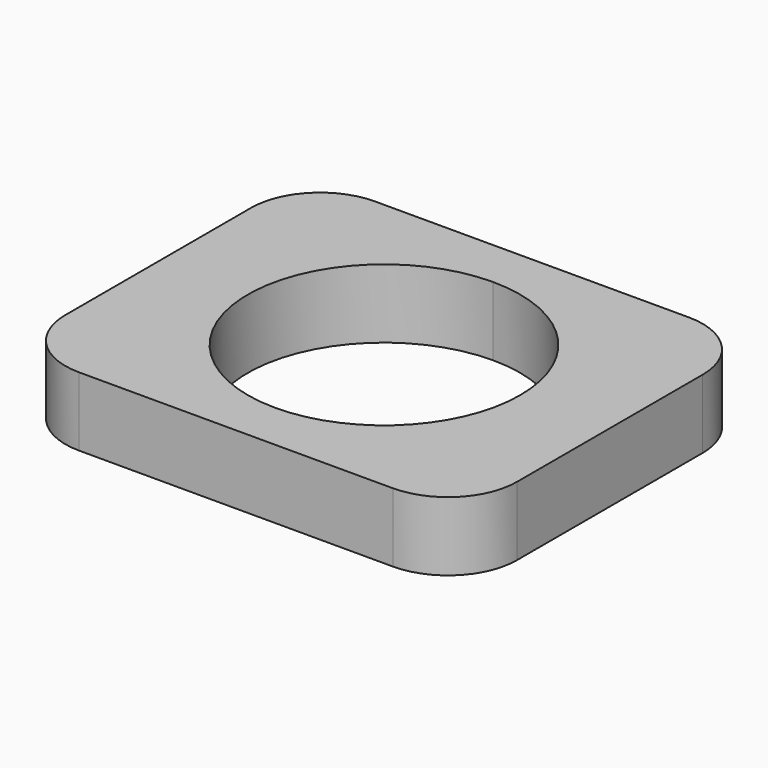
from build123d import *

# Parameters (mm, degrees)
F1_DEPTH = 6.35


with BuildPart() as f1:
    # F0 (on Top) → F1 (new body)
    with BuildSketch(Plane.XY):
        with BuildLine():
            Line((-33.452062, 64.246289), (-47.906495, 64.246289))
            ThreePointArc((-47.906495, 64.246289), (-52.396623, 62.386417), (-54.256495, 57.896289))
            Line((-54.256495, 57.896289), (-54.256495, 36.50268))
            ThreePointArc((-54.256495, 36.50268), (-52.396623, 32.012552), (-47.906495, 30.15268))
            Line((-47.906495, 30.15268), (-33.452062, 30.15268))
            Line((-33.452062, 30.15268), (-33.452062, 34.650155))
            ThreePointArc((-33.452062, 34.650155), (-46.001392, 47.199485), (-33.452062, 59.748815))
            Line((-33.452062, 59.748815), (-33.452062, 64.246289))
        make_face()
        with BuildLine():
            Line((-18.997629, 64.246289), (-33.452062, 64.246289))
            Line((-33.452062, 64.246289), (-33.452062, 59.748815))
            ThreePointArc((-33.452062, 59.748815), (-24.578346, 56.073201), (-20.902732, 47.199485))
            ThreePointArc((-20.902732, 47.199485), (-24.578346, 38.325769), (-33.452062, 34.650155))
            Line((-33.452062, 34.650155), (-33.452062, 30.15268))
            Line((-33.452062, 30.15268), (-18.997629, 30.15268))
            ThreePointArc((-18.997629, 30.15268), (-14.507501, 32.012552), (-12.647629, 36.50268))
            Line((-12.647629, 36.50268), (-12.647629, 57.896289))
            ThreePointArc((-12.647629, 57.896289), (-14.507501, 62.386417), (-18.997629, 64.246289))
        make_face()
    extrude(amount=F1_DEPTH)


solid = f1.part
